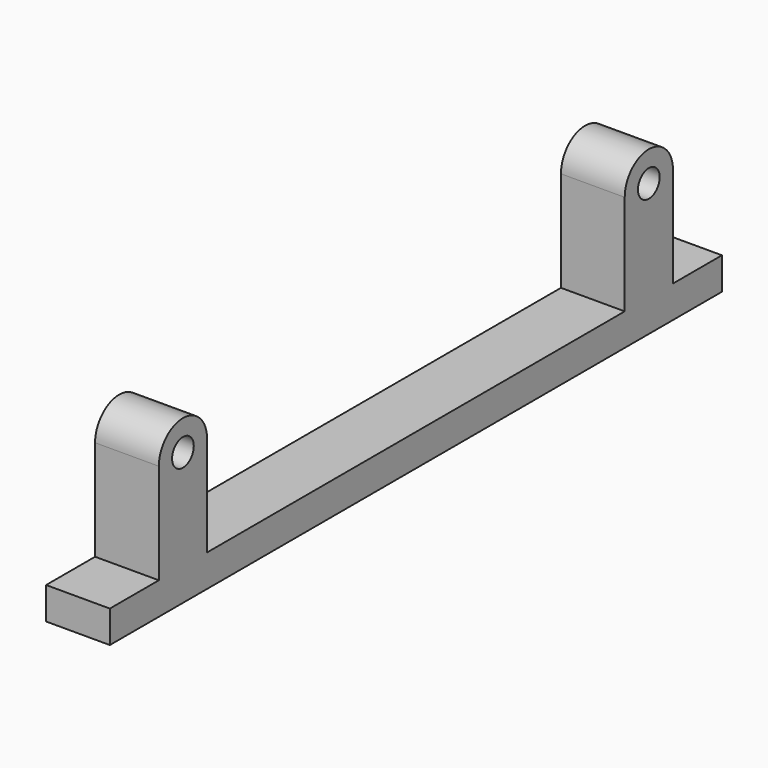
from build123d import *

# Parameters (mm, degrees)
F0_R     = 1.35
F1_DEPTH = 3.175


with BuildPart() as f1:
    # F0 (on Right) → F1 (new body, symmetric)
    with BuildSketch(Plane.YZ):
        with BuildLine():
            Line((-26, -10), (-26, 0))
            ThreePointArc((-26, 0), (-29, 3), (-32, 0))
            Line((-32, 0), (-32, -10))
            Line((-32, -10), (-38.1, -10))
            Line((-38.1, -10), (-38.1, -13.2))
            Line((-38.1, -13.2), (38.1, -13.2))
            Line((38.1, -13.2), (38.1, -10))
            Line((38.1, -10), (32, -10))
            Line((32, -10), (32, 0))
            ThreePointArc((32, 0), (29, 3), (26, 0))
            Line((26, 0), (26, -10))
            Line((26, -10), (-26, -10))
        make_face()
        with Locations((-29, 0)):
            Circle(F0_R, mode=Mode.SUBTRACT)
        with Locations((29, 0)):
            Circle(F0_R, mode=Mode.SUBTRACT)
    extrude(amount=F1_DEPTH, both=True)


solid = f1.part
